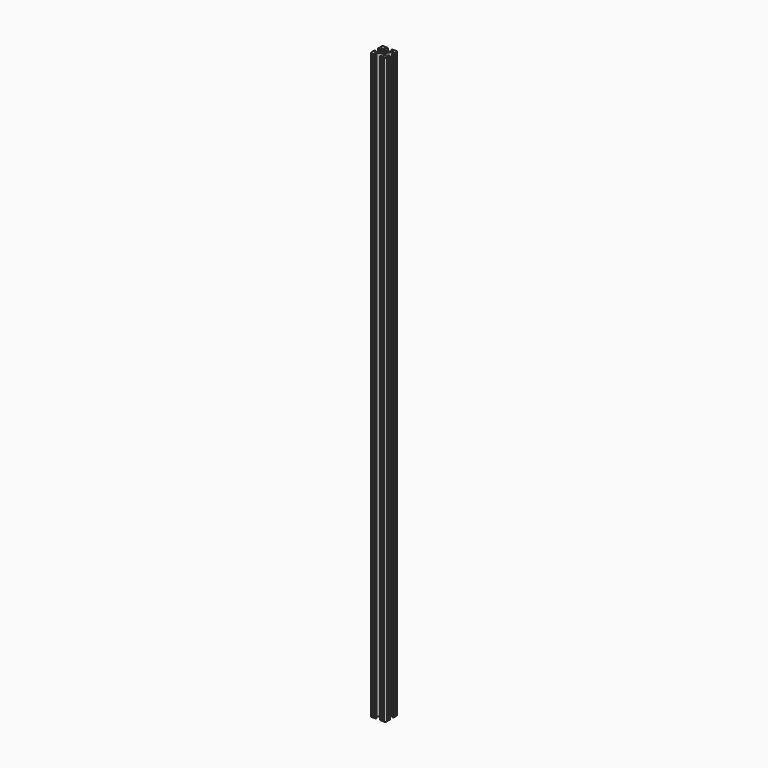
from build123d import *

# Parameters (mm, degrees)
SKETCH097_R   = 2.6035
EXTRUDE_DEPTH = 965.2


with BuildPart() as part:
    # Sketch097 → Extrude (new body)
    with BuildSketch(Plane.XY):
        with BuildLine():
            ThreePointArc((12.7, 6.333084), (12.192, 5.825084), (12.7, 5.317084))
            Line((12.7, 4.287469), (12.7, 5.317084))
            ThreePointArc((11.650988, 3.238457), (12.392751, 3.545706), (12.7, 4.287469))
            Line((11.539212, 3.238457), (11.650988, 3.238457))
            ThreePointArc((10.4902, 4.287469), (10.797449, 3.545706), (11.539212, 3.238457))
            Line((10.4902, 6.402089), (10.4902, 4.287469))
            ThreePointArc((10.4902, 6.402089), (9.856505, 7.351068), (8.737131, 7.129409))
            Line((5.441006, 3.840816), (8.737131, 7.129409))
            ThreePointArc((5.441006, 3.840816), (4.750878, 2.809883), (4.5085, 1.593186))
            Line((4.5085, -1.593186), (4.5085, 1.593186))
            ThreePointArc((4.5085, -1.593186), (4.750878, -2.809883), (5.441006, -3.840816))
            Line((8.737131, -7.129409), (5.441006, -3.840816))
            ThreePointArc((8.737131, -7.129409), (9.856505, -7.351068), (10.4902, -6.402089))
            Line((10.4902, -4.287469), (10.4902, -6.402089))
            ThreePointArc((11.539212, -3.238457), (10.797449, -3.545706), (10.4902, -4.287469))
            Line((11.650988, -3.238457), (11.539212, -3.238457))
            ThreePointArc((12.7, -4.287469), (12.392751, -3.545706), (11.650988, -3.238457))
            Line((12.7, -5.317084), (12.7, -4.287469))
            ThreePointArc((12.7, -5.317084), (12.192, -5.825084), (12.7, -6.333084))
            Line((12.7, -9.5504), (12.7, -6.333084))
            ThreePointArc((12.7, -9.5504), (12.192, -10.058323), (12.699847, -10.5664))
            ThreePointArc((10.566443, -12.699848), (12.082538, -12.082507), (12.699847, -10.5664))
            ThreePointArc((10.566443, -12.699848), (10.058367, -12.192), (9.550443, -12.7))
            Line((6.333127, -12.7), (9.550443, -12.7))
            ThreePointArc((6.333127, -12.7), (5.825127, -12.192), (5.317127, -12.7))
            Line((4.287512, -12.7), (5.317127, -12.7))
            ThreePointArc((3.2385, -11.650988), (3.545749, -12.392751), (4.287512, -12.7))
            Line((3.2385, -11.539212), (3.2385, -11.650988))
            ThreePointArc((4.287512, -10.4902), (3.545749, -10.797449), (3.2385, -11.539212))
            Line((6.416408, -10.4902), (4.287512, -10.4902))
            ThreePointArc((6.416408, -10.4902), (7.414731, -9.822813), (7.17965, -8.645193))
            Line((3.95227, -5.42369), (7.17965, -8.645193))
            ThreePointArc((3.95227, -5.42369), (2.922936, -4.736929), (1.709254, -4.4958))
            Line((-1.709254, -4.4958), (1.709254, -4.4958))
            ThreePointArc((-1.709254, -4.4958), (-2.922936, -4.736929), (-3.95227, -5.42369))
            Line((-7.17965, -8.645193), (-3.95227, -5.42369))
            ThreePointArc((-7.17965, -8.645193), (-7.414731, -9.822813), (-6.416408, -10.4902))
            Line((-4.287512, -10.4902), (-6.416408, -10.4902))
            ThreePointArc((-3.2385, -11.539212), (-3.545749, -10.797449), (-4.287512, -10.4902))
            Line((-3.2385, -11.650988), (-3.2385, -11.539212))
            ThreePointArc((-4.287512, -12.7), (-3.545749, -12.392751), (-3.2385, -11.650988))
            Line((-5.317127, -12.7), (-4.287512, -12.7))
            ThreePointArc((-5.317127, -12.7), (-5.825127, -12.192), (-6.333127, -12.7))
            Line((-9.550443, -12.7), (-6.333127, -12.7))
            ThreePointArc((-9.550443, -12.7), (-10.058367, -12.192), (-10.566443, -12.699848))
            ThreePointArc((-12.699847, -10.5664), (-12.082538, -12.082507), (-10.566443, -12.699848))
            ThreePointArc((-12.699847, -10.5664), (-12.192, -10.058323), (-12.7, -9.5504))
            Line((-12.7, -6.333084), (-12.7, -9.5504))
            ThreePointArc((-12.7, -6.333084), (-12.192, -5.825084), (-12.7, -5.317084))
            Line((-12.7, -4.287469), (-12.7, -5.317084))
            ThreePointArc((-11.650988, -3.238457), (-12.392751, -3.545706), (-12.7, -4.287469))
            Line((-11.539212, -3.238457), (-11.650988, -3.238457))
            ThreePointArc((-10.4902, -4.287469), (-10.797449, -3.545706), (-11.539212, -3.238457))
            Line((-10.4902, -6.402089), (-10.4902, -4.287469))
            ThreePointArc((-10.4902, -6.402089), (-9.856505, -7.351068), (-8.737131, -7.129409))
            Line((-5.441006, -3.840816), (-8.737131, -7.129409))
            ThreePointArc((-5.441006, -3.840816), (-4.750878, -2.809883), (-4.5085, -1.593186))
            Line((-4.5085, 1.593186), (-4.5085, -1.593186))
            ThreePointArc((-4.5085, 1.593186), (-4.750878, 2.809883), (-5.441006, 3.840816))
            Line((-8.737131, 7.129409), (-5.441006, 3.840816))
            ThreePointArc((-8.737131, 7.129409), (-9.856505, 7.351068), (-10.4902, 6.402089))
            Line((-10.4902, 4.287469), (-10.4902, 6.402089))
            ThreePointArc((-11.539212, 3.238457), (-10.797449, 3.545706), (-10.4902, 4.287469))
            Line((-11.650988, 3.238457), (-11.539212, 3.238457))
            ThreePointArc((-12.7, 4.287469), (-12.392751, 3.545706), (-11.650988, 3.238457))
            Line((-12.7, 5.317084), (-12.7, 4.287469))
            ThreePointArc((-12.7, 5.317084), (-12.192, 5.825084), (-12.7, 6.333084))
            Line((-12.7, 9.5504), (-12.7, 6.333084))
            ThreePointArc((-12.7, 9.5504), (-12.192, 10.058323), (-12.699847, 10.5664))
            ThreePointArc((-10.566443, 12.699848), (-12.082538, 12.082507), (-12.699847, 10.5664))
            ThreePointArc((-10.566443, 12.699848), (-10.058367, 12.192), (-9.550443, 12.7))
            Line((-6.333127, 12.7), (-9.550443, 12.7))
            ThreePointArc((-6.333127, 12.7), (-5.825127, 12.192), (-5.317127, 12.7))
            Line((-4.287512, 12.7), (-5.317127, 12.7))
            ThreePointArc((-3.2385, 11.650988), (-3.545749, 12.392751), (-4.287512, 12.7))
            Line((-3.2385, 11.539212), (-3.2385, 11.650988))
            ThreePointArc((-4.287512, 10.4902), (-3.545749, 10.797449), (-3.2385, 11.539212))
            Line((-6.476789, 10.4902), (-4.287512, 10.4902))
            ThreePointArc((-6.476789, 10.4902), (-7.432222, 9.851404), (-7.207036, 8.724371))
            Line((-3.898273, 5.423169), (-7.207036, 8.724371))
            ThreePointArc((-3.898273, 5.423169), (-2.86912, 4.736788), (-1.655778, 4.4958))
            Line((1.655778, 4.4958), (-1.655778, 4.4958))
            ThreePointArc((1.655778, 4.4958), (2.86912, 4.736788), (3.898273, 5.423169))
            Line((7.207036, 8.724371), (3.898273, 5.423169))
            ThreePointArc((7.207036, 8.724371), (7.432222, 9.851404), (6.476789, 10.4902))
            Line((4.287512, 10.4902), (6.476789, 10.4902))
            ThreePointArc((3.2385, 11.539212), (3.545749, 10.797449), (4.287512, 10.4902))
            Line((3.2385, 11.650988), (3.2385, 11.539212))
            ThreePointArc((4.287512, 12.7), (3.545749, 12.392751), (3.2385, 11.650988))
            Line((5.317127, 12.7), (4.287512, 12.7))
            ThreePointArc((5.317127, 12.7), (5.825127, 12.192), (6.333127, 12.7))
            Line((9.550443, 12.7), (6.333127, 12.7))
            ThreePointArc((9.550443, 12.7), (10.058367, 12.192), (10.566443, 12.699848))
            ThreePointArc((12.699847, 10.5664), (12.082538, 12.082507), (10.566443, 12.699848))
            ThreePointArc((12.699847, 10.5664), (12.192, 10.058323), (12.7, 9.5504))
            Line((12.7, 6.333084), (12.7, 9.5504))
        make_face()
        Circle(SKETCH097_R, mode=Mode.SUBTRACT)
    extrude(amount=EXTRUDE_DEPTH)


solid = part.part
